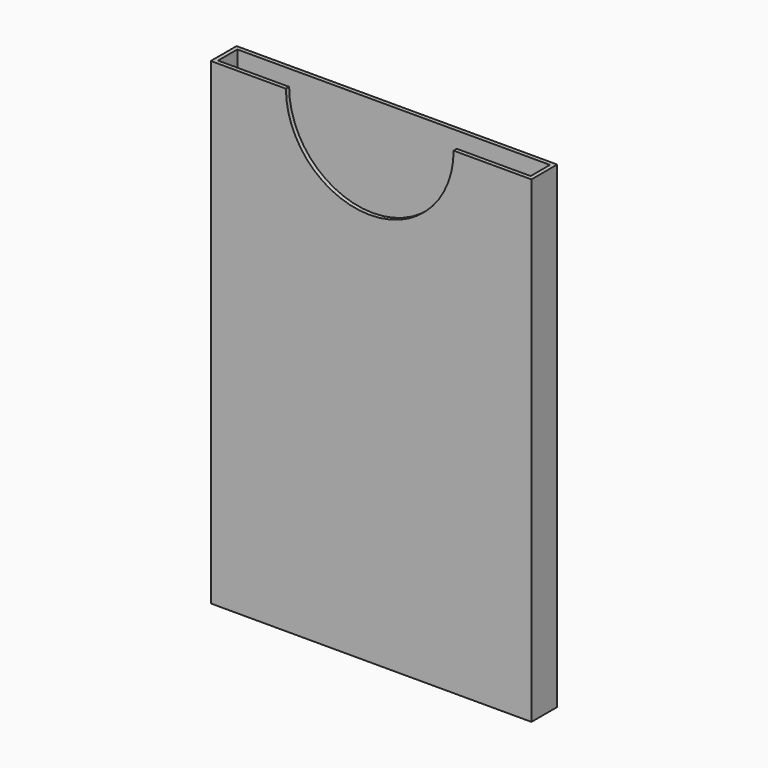
from build123d import *

# Parameters (mm, degrees)
SKETCH_W        = 47.8
SKETCH_H        = 4.8
PAD_DEPTH       = 71.2
SKETCH001_W     = 46.6
SKETCH001_H     = 3.6
POCKET_DEPTH    = 70
SKETCH002_R     = 12.5
POCKET001_DEPTH = 0.6


with BuildPart() as part:
    # Sketch → Pad (new body)
    with BuildSketch(Plane.XY):
        with Locations((23.9, 2.4)):
            Rectangle(SKETCH_W, SKETCH_H)
    extrude(amount=PAD_DEPTH)

    # Sketch001 (on Face6 of Pad) → Pocket (cut)
    with BuildSketch(Plane.XY.offset(71.2)):
        with Locations((23.9, 2.4)):
            Rectangle(SKETCH001_W, SKETCH001_H)
    extrude(amount=-POCKET_DEPTH, mode=Mode.SUBTRACT)

    # Sketch002 (on Face6 of Pocket) → Pocket001 (cut)
    with BuildSketch(Plane.XZ):
        with Locations((23.7, 71.2)):
            Circle(SKETCH002_R)
    extrude(amount=-POCKET001_DEPTH, mode=Mode.SUBTRACT)


solid = part.part
